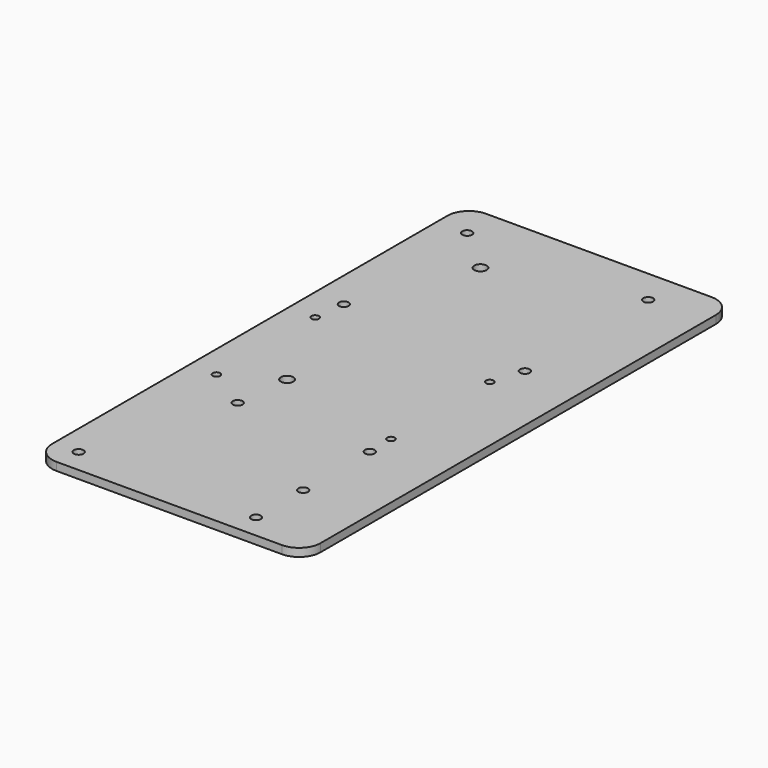
from build123d import *

# Parameters (mm, degrees)
CYLINDER_R        = 1.8
CYLINDER_DEPTH    = 10
CYLINDER002_R     = 2.3
CYLINDER002_DEPTH = 20
ARRAY001_Y_COUNT  = 2
ARRAY001_Y_PITCH  = 90
CYLINDER001_R     = 1.4
CYLINDER001_DEPTH = 10
ARRAY_X_COUNT     = 2
ARRAY_X_PITCH     = 65
ARRAY_Y_COUNT     = 2
ARRAY_Y_PITCH     = 46
CYLINDER011_R     = 1.8
CYLINDER011_DEPTH = 20
ARRAY007_X_COUNT  = 2
ARRAY007_X_PITCH  = 67.4
ARRAY007_Y_COUNT  = 2
ARRAY007_Y_PITCH  = 57.4
BOX_W             = 100
BOX_H             = 200
BOX_DEPTH         = 3
FILLET_R          = 8


with BuildPart() as m3_bolt_hole:
    # Cylinder → Cylinder (new body)
    with BuildSketch(Plane.XY):
        Circle(CYLINDER_R)
    extrude(amount=CYLINDER_DEPTH)


with BuildPart() as m3_bolt_hole_clone003:
    # Body003 base: copy of m3 bolt hole
    add(m3_bolt_hole.part)


with BuildPart() as m3_bolt_hole_clone003_1:
    # Body003 placement: moved
    add(m3_bolt_hole_clone003.part.moved(Location((30.2, -3.5, 0))))


with BuildPart() as m3_bolt_hole_clone002:
    # Body002 base: copy of m3 bolt hole
    add(m3_bolt_hole.part)


with BuildPart() as m3_bolt_hole_clone002_1:
    # Body002 placement: moved
    add(m3_bolt_hole_clone002.part.moved(Location((30.2, 27.5, 0))))


with BuildPart() as m3_bolt_hole_clone001:
    # Body001 base: copy of m3 bolt hole
    add(m3_bolt_hole.part)


with BuildPart() as m3_bolt_hole_clone001_1:
    # Body001 placement: moved
    add(m3_bolt_hole_clone001.part.moved(Location((-35.8, -25.5, 0))))


with BuildPart() as m3_bolt_hole_clone:
    # Body base: copy of m3 bolt hole
    add(m3_bolt_hole.part)


with BuildPart() as m3_bolt_hole_clone_1:
    # Body placement: moved
    add(m3_bolt_hole_clone.part.moved(Location((-19, 27.5, 0))))


with BuildPart() as attach_m4_bolt_array:
    # Cylinder002 → Cylinder002 (new body)
    with BuildSketch(Plane.XY):
        Circle(CYLINDER002_R)
    extrude(amount=CYLINDER002_DEPTH)

    # Array001 Y: attach m4 bolt array ×2


with BuildPart() as attach_m4_bolt_array_1:
    add(attach_m4_bolt_array.part)
    with Locations(*[(0, i * ARRAY001_Y_PITCH, 0) for i in range(1, ARRAY001_Y_COUNT)]):
        add(attach_m4_bolt_array.part)


with BuildPart() as attach_m4_bolt_array_2:
    # Array001 placement: moved
    add(attach_m4_bolt_array_1.part.moved(Location((-17, 48, -6))))


with BuildPart() as m2_5_bolt_hole_7x5_pcb_array:
    # Cylinder001 → Cylinder001 (new body)
    with BuildSketch(Plane.XY):
        Circle(CYLINDER001_R)
    extrude(amount=CYLINDER001_DEPTH)

    # Array X: m2.5 bolt hole 7x5 pcb array ×2


with BuildPart() as m2_5_bolt_hole_7x5_pcb_array_1:
    add(m2_5_bolt_hole_7x5_pcb_array.part)
    with Locations(*[(i * ARRAY_X_PITCH, 0, 0) for i in range(1, ARRAY_X_COUNT)]):
        add(m2_5_bolt_hole_7x5_pcb_array.part)

    # Array Y: m2.5 bolt hole 7x5 pcb array ×2


with BuildPart() as m2_5_bolt_hole_7x5_pcb_array_2:
    add(m2_5_bolt_hole_7x5_pcb_array_1.part)
    with Locations(*[(0, i * ARRAY_Y_PITCH, 0) for i in range(1, ARRAY_Y_COUNT)]):
        add(m2_5_bolt_hole_7x5_pcb_array_1.part)


with BuildPart() as m2_5_bolt_hole_7x5_pcb_array_3:
    # Array placement: moved
    add(m2_5_bolt_hole_7x5_pcb_array_2.part.moved(Location((-35, 37.6, 0))))


with BuildPart() as wall_box_hole_stand_array002:
    # Cylinder011 → Cylinder011 (new body)
    with BuildSketch(Plane(origin=(3.3, 3.3, 0), x_dir=(1, 0, 0), z_dir=(0, 0, 1))):
        Circle(CYLINDER011_R)
    extrude(amount=CYLINDER011_DEPTH)

    # Array007 X: wall box hole stand array002 ×2


with BuildPart() as wall_box_hole_stand_array002_1:
    add(wall_box_hole_stand_array002.part)
    with Locations(*[(i * ARRAY007_X_PITCH, 0, 0) for i in range(1, ARRAY007_X_COUNT)]):
        add(wall_box_hole_stand_array002.part)

    # Array007 Y: wall box hole stand array002 ×2


with BuildPart() as wall_box_hole_stand_array002_2:
    add(wall_box_hole_stand_array002_1.part)
    with Locations(*[(0, i * ARRAY007_Y_PITCH, 0) for i in range(1, ARRAY007_Y_COUNT)]):
        add(wall_box_hole_stand_array002_1.part)


with BuildPart() as wall_box_hole_stand_array002_3:
    # Array007 placement: moved
    add(wall_box_hole_stand_array002_2.part.moved(Location((-37, 92, -6))))


with BuildPart() as cnc_v4_m3_hole_fusion:
    # Body004 base: copy of m3 bolt hole
    add(m3_bolt_hole.part)


with BuildPart() as cnc_v4_m3_hole_fusion_1:
    # Body004 placement: moved
    add(cnc_v4_m3_hole_fusion.part.moved(Location((30.2, -25.5, 0))))

    # Fusion: union m3 bolt hole clone003, m3 bolt hole clone002, m3 bolt hole clone001, m3 bolt hole clone, attach m4 bolt array, m2.5 bolt hole 7x5 pcb array, wall box hole stand array002
    add(m3_bolt_hole_clone003_1.part)
    add(m3_bolt_hole_clone002_1.part)
    add(m3_bolt_hole_clone001_1.part)
    add(m3_bolt_hole_clone_1.part)
    add(attach_m4_bolt_array_2.part)
    add(m2_5_bolt_hole_7x5_pcb_array_3.part)
    add(wall_box_hole_stand_array002_3.part)


with BuildPart() as cnc_v4_m3_hole_fusion_2:
    # Fusion placement: moved
    add(cnc_v4_m3_hole_fusion_1.part.moved(Location((45, 34.4, -2.25))))


with BuildPart() as cnc_v4_plate_cut:
    # Box → Box (new body)
    with BuildSketch(Plane.XY):
        with Locations((50, 100)):
            Rectangle(BOX_W, BOX_H)
    extrude(amount=BOX_DEPTH)

    # Fillet
    fillet_edges = [cnc_v4_plate_cut.edges().sort_by_distance(p)[0] for p in [
        (0, 0, 1.5),
        (0, 200, 1.5),
        (100, 0, 1.5),
        (100, 200, 1.5),
    ]]
    fillet(fillet_edges, radius=FILLET_R)

    # Cut008: cut cnc v4 m3 hole fusion
    add(cnc_v4_m3_hole_fusion_2.part, mode=Mode.SUBTRACT)


solid = cnc_v4_plate_cut.part
